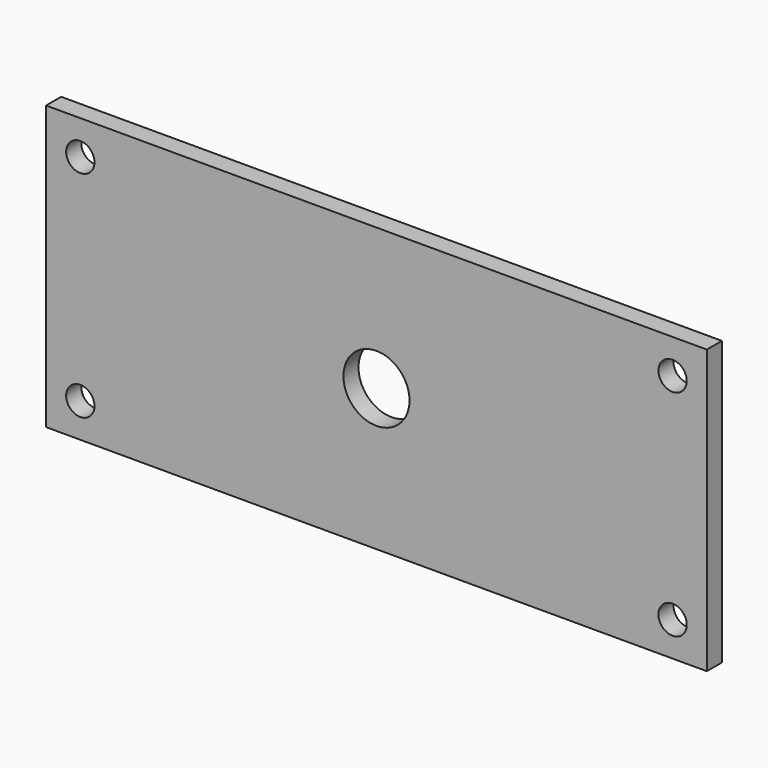
from build123d import *

# Parameters (mm, degrees)
F0_W     = 70
F0_H     = 30
F1_DEPTH = 2
F2_R     = 1.5
F3_DEPTH = 25
F4_R     = 3.5
F5_DEPTH = 2.001


with BuildPart() as f1:
    # F0 (on Front) → F1 (new body)
    with BuildSketch(Plane.XZ):
        Rectangle(F0_W, F0_H)
    extrude(amount=F1_DEPTH)

    # F2 (on face) → F3 (cut)
    with BuildSketch(Plane.XZ.offset(2)):
        with Locations((-31.372793, 11.372793)):
            Circle(F2_R)
        with Locations((31.372793, 11.372793)):
            Circle(F2_R)
        with Locations((-31.372793, -11.372793)):
            Circle(F2_R)
        with Locations((31.372793, -11.372793)):
            Circle(F2_R)
    extrude(amount=-F3_DEPTH, mode=Mode.SUBTRACT)

    # F4 (on face) → F5 (cut, through all)
    with BuildSketch(Plane.XZ.offset(2)):
        Circle(F4_R)
    extrude(amount=-F5_DEPTH, mode=Mode.SUBTRACT)


solid = f1.part
